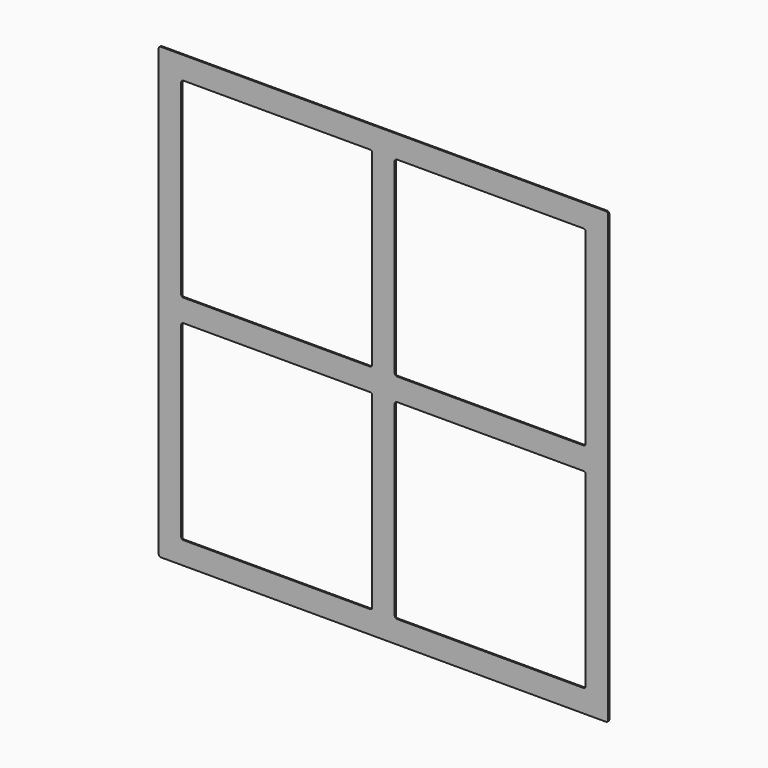
from build123d import *

# Parameters (mm, degrees)
F1_DEPTH = 3


with BuildPart() as f1:
    # F0 (on Front) → F1 (new body)
    with BuildSketch(Plane.XZ):
        with BuildLine():
            ThreePointArc((500, 495), (498.535534, 498.535534), (495, 500))
            Line((495, 500), (-495, 500))
            ThreePointArc((-495, 500), (-498.535534, 498.535534), (-500, 495))
            Line((-500, 495), (-500, -495))
            ThreePointArc((-500, -495), (-498.535534, -498.535534), (-495, -500))
            Line((-495, -500), (495, -500))
            ThreePointArc((495, -500), (498.535534, -498.535534), (500, -495))
            Line((500, -495), (500, 495))
        make_face()
        with BuildLine():
            ThreePointArc((-445, -450), (-448.535534, -448.535534), (-450, -445))
            Line((-450, -445), (-450, -30))
            ThreePointArc((-450, -30), (-448.535534, -26.464466), (-445, -25))
            Line((-445, -25), (-30, -25))
            ThreePointArc((-30, -25), (-26.464466, -26.464466), (-25, -30))
            Line((-25, -30), (-25, -445))
            ThreePointArc((-25, -445), (-26.464466, -448.535534), (-30, -450))
            Line((-30, -450), (-445, -450))
        make_face(mode=Mode.SUBTRACT)
        with BuildLine():
            ThreePointArc((30, -450), (26.464466, -448.535534), (25, -445))
            Line((25, -445), (25, -30))
            ThreePointArc((25, -30), (26.464466, -26.464466), (30, -25))
            Line((30, -25), (445, -25))
            ThreePointArc((445, -25), (448.535534, -26.464466), (450, -30))
            Line((450, -30), (450, -445))
            ThreePointArc((450, -445), (448.535534, -448.535534), (445, -450))
            Line((445, -450), (30, -450))
        make_face(mode=Mode.SUBTRACT)
        with BuildLine():
            ThreePointArc((-25, 30), (-26.464466, 26.464466), (-30, 25))
            Line((-30, 25), (-445, 25))
            ThreePointArc((-445, 25), (-448.535534, 26.464466), (-450, 30))
            Line((-450, 30), (-450, 445))
            ThreePointArc((-450, 445), (-448.535534, 448.535534), (-445, 450))
            Line((-445, 450), (-30, 450))
            ThreePointArc((-30, 450), (-26.464466, 448.535534), (-25, 445))
            Line((-25, 445), (-25, 30))
        make_face(mode=Mode.SUBTRACT)
        with BuildLine():
            ThreePointArc((30, 25), (26.464466, 26.464466), (25, 30))
            Line((25, 30), (25, 445))
            ThreePointArc((25, 445), (26.464466, 448.535534), (30, 450))
            Line((30, 450), (445, 450))
            ThreePointArc((445, 450), (448.535534, 448.535534), (450, 445))
            Line((450, 445), (450, 30))
            ThreePointArc((450, 30), (448.535534, 26.464466), (445, 25))
            Line((445, 25), (30, 25))
        make_face(mode=Mode.SUBTRACT)
    extrude(amount=F1_DEPTH)


solid = f1.part
